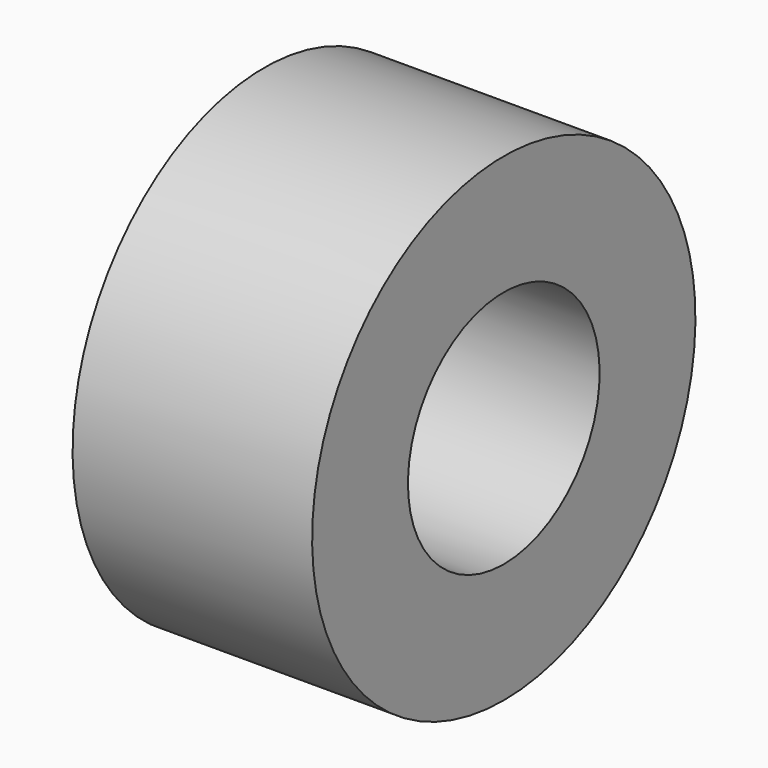
from build123d import *

# Parameters (mm, degrees)
CYLINDER017_R          = 2.5
CYLINDER017_DEPTH      = 25
CYLINDER016_R          = 5
CYLINDER016_DEPTH      = 5
CUT010_PLACEMENT_ANGLE = 90


with BuildPart() as rotor007:
    # Cylinder017 → Cylinder017 (new body)
    with BuildSketch(Plane(origin=(25, 25, 43), x_dir=(1, 0, 0), z_dir=(0, 0, 1))):
        Circle(CYLINDER017_R)
    extrude(amount=CYLINDER017_DEPTH)


with BuildPart() as e001:
    # Cylinder016 → Cylinder016 (new body)
    with BuildSketch(Plane(origin=(25, 25, 49), x_dir=(1, 0, 0), z_dir=(0, 0, 1))):
        Circle(CYLINDER016_R)
    extrude(amount=CYLINDER016_DEPTH)

    # Cut010: cut Rotor007
    add(rotor007.part, mode=Mode.SUBTRACT)


with BuildPart() as e001_1:
    # Cut010 placement: moved
    add(e001.part.moved(Location((11, -22.5, 55))).rotate(Axis((11, -22.5, 55), (0, 1, 0)), CUT010_PLACEMENT_ANGLE))


solid = e001_1.part
